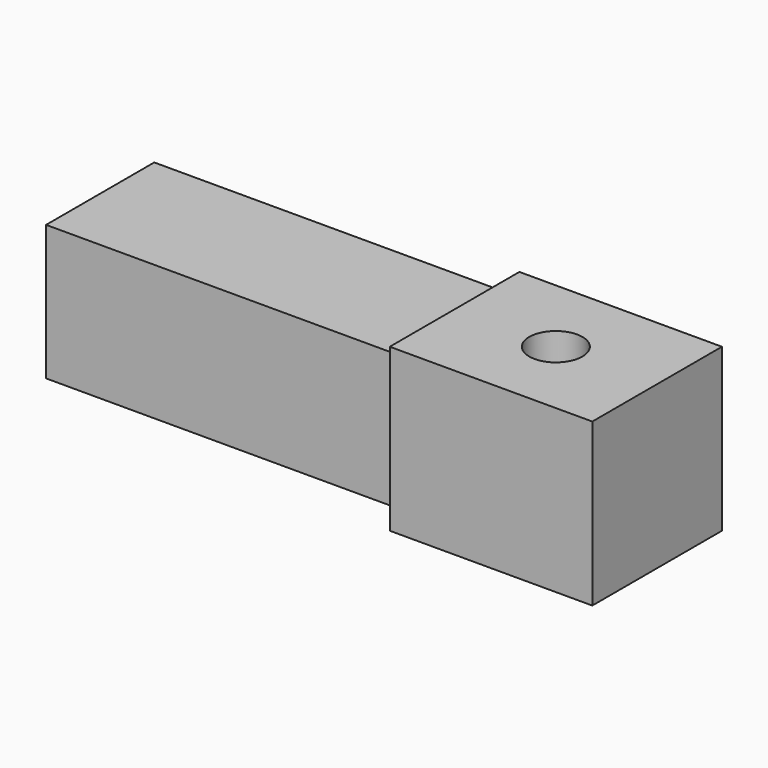
from build123d import *

# Parameters (mm, degrees)
F0_W          = 70
F0_H          = 26.7
F2_DEPTH      = 26.7
F1_W          = 40
F1_H          = 32
F3_DEPTH      = 29.35
F3_DEPTH_BACK = 2.65
F5_D          = 10.5


with BuildPart() as f2:
    # F0 (on Front) → F2 (new body)
    with BuildSketch(Plane.XZ):
        with Locations((-14.08916, 0.31107)):
            Rectangle(F0_W, F0_H)
    extrude(amount=F2_DEPTH)

    # F1 (on Front) → F3 (join, two sides)
    with BuildSketch(Plane.XZ) as f3_sk:
        with Locations((40.91084, 0.31107)):
            Rectangle(F1_W, F1_H)
    extrude(amount=F3_DEPTH)
    extrude(f3_sk.sketch, amount=-F3_DEPTH_BACK)

    # F5 (through all)
    with Locations(Plane.XY.offset(16.31107)):
        with Locations((40.91084, -13.35)):
            Hole(F5_D / 2)


solid = f2.part
